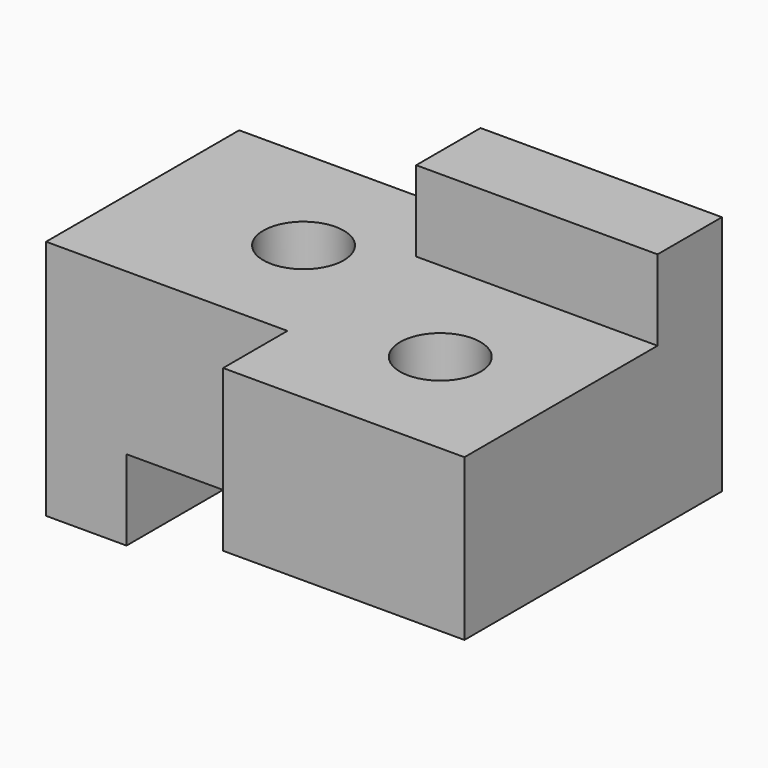
from build123d import *

# Parameters (mm, degrees)
F1_DEPTH = 12.7
F2_W     = 6.35
F2_H     = 19.05
F3_DEPTH = 6.35
F4_W     = 19.05
F4_H     = 6.35
F5_DEPTH = 6.35
F6_R     = 3.175
F7_DEPTH = 25.4
F8_DEPTH = 25.4


with BuildPart() as f1:
    # F0 (on Top) → F1 (new body)
    with BuildSketch(Plane.XY):
        Polygon((0, 19.05), (0, 0), (19.05, 0), (19.05, -6.35), (38.1, -6.35), (38.1, 19.05), align=None)
    extrude(amount=F1_DEPTH)

    # F2 (on face) → F3 (join)
    with BuildSketch(Plane(origin=(0, 0, 0), x_dir=(1, 0, 0), z_dir=(0, 0, -1))):
        with Locations((3.175, -9.525)):
            Rectangle(F2_W, F2_H)
    extrude(amount=F3_DEPTH)

    # F4 (on face) → F5 (join)
    with BuildSketch(Plane.XY.offset(12.7)):
        with Locations((28.575, 15.875)):
            Rectangle(F4_W, F4_H)
    extrude(amount=F5_DEPTH)

    # F6 (on face) → F7 (cut)
    with BuildSketch(Plane.XY.offset(12.7)):
        with Locations((28.575, 3.175)):
            Circle(F6_R)
    extrude(amount=-F7_DEPTH, mode=Mode.SUBTRACT)

    # F6 (on face) → F8 (cut)
    with BuildSketch(Plane.XY.offset(12.7)):
        with Locations((12.7, 9.525)):
            Circle(F6_R)
    extrude(amount=-F8_DEPTH, mode=Mode.SUBTRACT)


solid = f1.part
